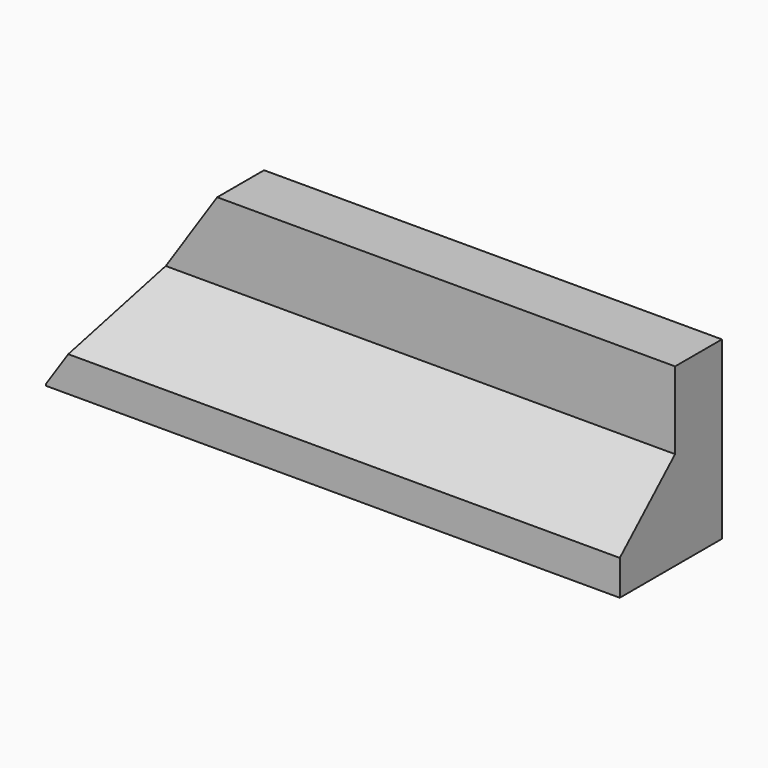
from build123d import *

# Parameters (mm, degrees)
F0_W          = 25
F0_H          = 15
F0_W_2        = 29.5127091267
F1_DEPTH      = 122.5
F3_DEPTH      = 9.5530112578
F3_DEPTH_BACK = 44.9616978689


with BuildPart() as f1:
    # F0 (on Right) → F1 (new body, symmetric)
    with BuildSketch(Plane.YZ):
        Polygon((9.5520112578, 41.8663724517), (-15.4479887422, 41.8663724517), (-15.4479887422, 8.8663724517), (-15.4479887422, -18.1336275483), (9.5520112578, -18.1336275483), align=None)
        Polygon((-15.4479887422, -18.1336275483), (-15.4479887422, 8.8663724517), (-44.9606978689, -18.1336275483), align=None)
        with Locations((-2.9479887422, -25.6336275483)):
            Rectangle(F0_W, F0_H)
        with Locations((-30.2043433055, -25.6336275483)):
            Rectangle(F0_W_2, F0_H)
    extrude(amount=F1_DEPTH, both=True)

    # F2 (on Front) → F3 (cut, two sides)
    with BuildSketch(Plane.XZ) as f3_sk:
        Polygon((-72.8494718671, 42.1261042356), (-122.8494718671, 42.1261042356), (-122.8494718671, -32.8738957644), align=None)
    extrude(amount=-F3_DEPTH, mode=Mode.SUBTRACT)
    extrude(f3_sk.sketch, amount=F3_DEPTH_BACK, mode=Mode.SUBTRACT)


with BuildPart() as f4_1:
    # F4: copy of F1
    add(f1.part)


solid = Compound([f1.part, f4_1.part])
